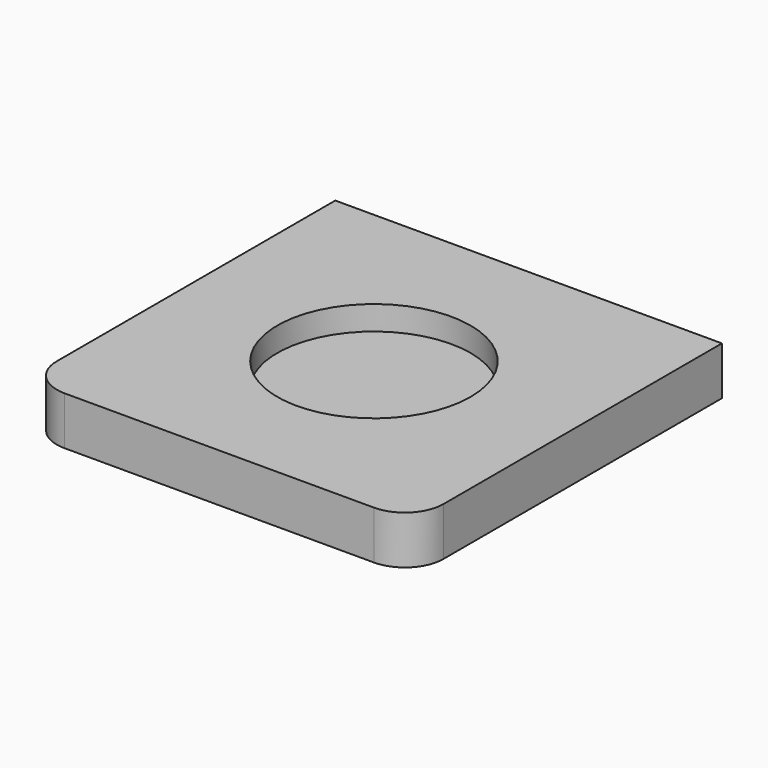
from build123d import *

# Parameters (mm, degrees)
F0_W     = 50.8
F0_H     = 50.8
F1_DEPTH = 6.35
F2_R     = 5.08
F3_R     = 12.7
F4_DEPTH = 3.175


with BuildPart() as f1:
    # F0 (on Top) → F1 (new body)
    with BuildSketch(Plane.XY):
        Rectangle(F0_W, F0_H)
    extrude(amount=F1_DEPTH)

    # F2
    f2_edges = [f1.edges().sort_by_distance(p)[0] for p in [
        (-25.4, -25.4, 3.175),
        (25.4, -25.4, 3.175),
    ]]
    fillet(f2_edges, radius=F2_R)

    # F3 (on face) → F4 (cut)
    with BuildSketch(Plane.XY.offset(6.35)):
        Circle(F3_R)
    extrude(amount=-F4_DEPTH, mode=Mode.SUBTRACT)


solid = f1.part
